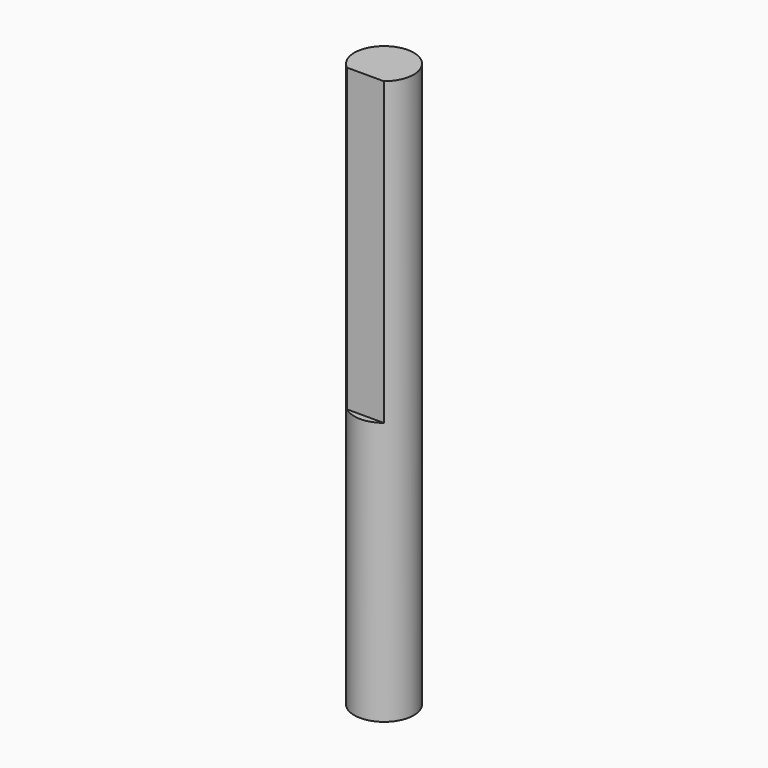
from build123d import *

# Parameters (mm, degrees)
SKETCH_R     = 3.95
PAD_DEPTH    = 75
POCKET_DEPTH = 40


with BuildPart() as part:
    # Sketch → Pad (new body)
    with BuildSketch(Plane.XY):
        Circle(SKETCH_R)
    extrude(amount=PAD_DEPTH)

    # Sketch001 (on Face3 of Pad) → Pocket (cut)
    with BuildSketch(Plane.XY.offset(75)):
        with BuildLine():
            ThreePointArc((-2.447958, -3.1), (0, -3.95), (2.447958, -3.1))
            Line((-2.447958, -3.1), (2.447958, -3.1))
        make_face()
    extrude(amount=-POCKET_DEPTH, mode=Mode.SUBTRACT)


solid = part.part
